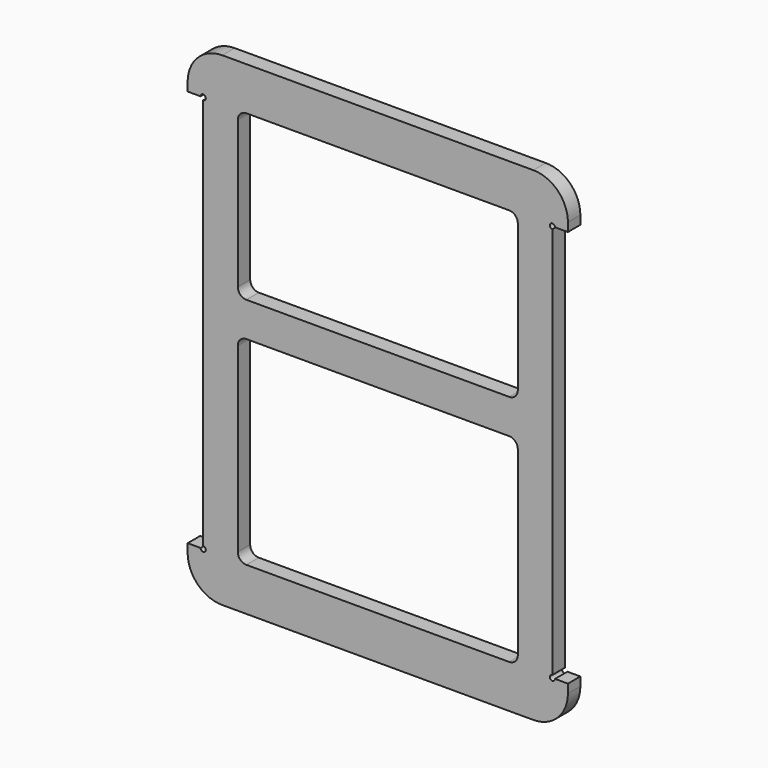
from build123d import *

# Parameters (mm, degrees)
F1_DEPTH = 9


with BuildPart() as f1:
    # F0 (on Front) → F1 (new body)
    with BuildSketch(Plane.XZ):
        with BuildLine():
            Line((90, 140), (-90, 140))
            ThreePointArc((-90, 140), (-104.142136, 134.142136), (-110, 120))
            Line((-110, 120), (-110, 115))
            Line((-110, 115), (-102.5, 115))
            ThreePointArc((-102.5, 115), (-101, 116.5), (-99.5, 115))
            ThreePointArc((-99.5, 115), (-99.93934, 113.93934), (-101, 113.5))
            Line((-101, 113.5), (-101, -113.5))
            ThreePointArc((-101, -113.5), (-99.93934, -113.93934), (-99.5, -115))
            ThreePointArc((-99.5, -115), (-101, -116.5), (-102.5, -115))
            Line((-102.5, -115), (-110, -115))
            Line((-110, -115), (-110, -120))
            ThreePointArc((-110, -120), (-104.142136, -134.142136), (-90, -140))
            Line((-90, -140), (90, -140))
            ThreePointArc((90, -140), (104.142136, -134.142136), (110, -120))
            Line((110, -120), (110, -115))
            Line((110, -115), (102.5, -115))
            ThreePointArc((102.5, -115), (99.93934, -116.06066), (101, -113.5))
            Line((101, -113.5), (101, 113.5))
            ThreePointArc((101, 113.5), (99.93934, 116.06066), (102.5, 115))
            Line((102.5, 115), (110, 115))
            Line((110, 115), (110, 120))
            ThreePointArc((110, 120), (104.142136, 134.142136), (90, 140))
        make_face()
        with BuildLine():
            Line((-81, -110), (-81, -5))
            ThreePointArc((-81, -5), (-79.535534, -1.464466), (-76, 0))
            Line((-76, 0), (76, 0))
            ThreePointArc((76, 0), (79.535534, -1.464466), (81, -5))
            Line((81, -5), (81, -110))
            ThreePointArc((81, -110), (79.535534, -113.535534), (76, -115))
            Line((76, -115), (-76, -115))
            ThreePointArc((-76, -115), (-79.535534, -113.535534), (-81, -110))
        make_face(mode=Mode.SUBTRACT)
        with BuildLine():
            Line((76, 20), (-76, 20))
            ThreePointArc((-76, 20), (-79.535534, 21.464466), (-81, 25))
            Line((-81, 25), (-81, 110))
            ThreePointArc((-81, 110), (-79.535534, 113.535534), (-76, 115))
            Line((-76, 115), (76, 115))
            ThreePointArc((76, 115), (79.535534, 113.535534), (81, 110))
            Line((81, 110), (81, 25))
            ThreePointArc((81, 25), (79.535534, 21.464466), (76, 20))
        make_face(mode=Mode.SUBTRACT)
    extrude(amount=-F1_DEPTH)


solid = f1.part
